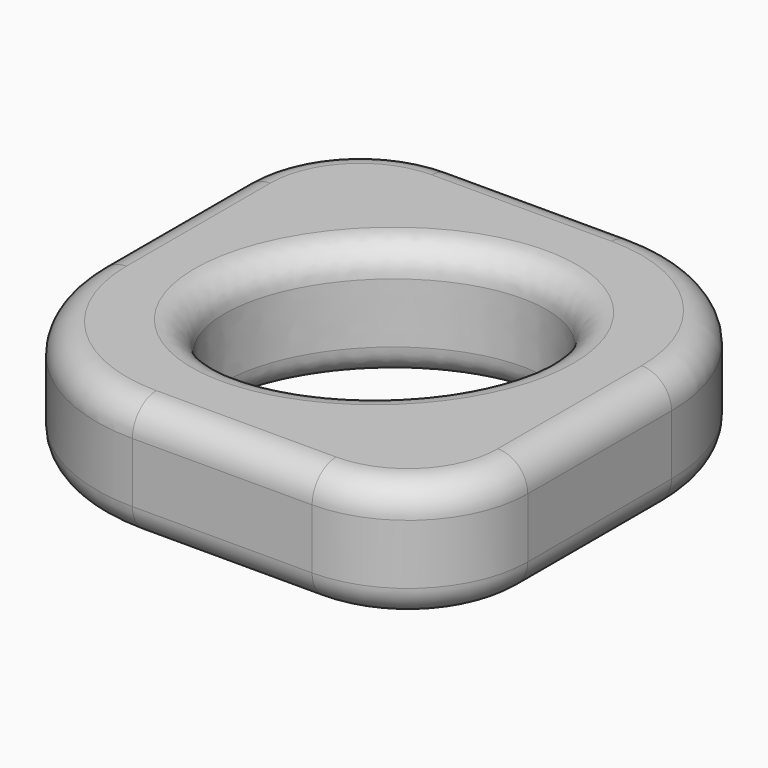
from build123d import *

# Parameters (mm, degrees)
F0_W     = 101.6
F0_H     = 101.6
F1_DEPTH = 25.4
F2_R     = 25.4
F3_R     = 38.1
F4_R     = 6.35


with BuildPart() as f1:
    # F0 (on Top) → F1 (new body)
    with BuildSketch(Plane.XY):
        Rectangle(F0_W, F0_H)
        with BuildLine():
            add(Edge.make_bspline(
                [(22.45064, 22.45064), (-8.657879, 53.55916), (-26.77958, 4.32894), (-44.901281, -44.901281), (4.32894, -26.77958), (53.55916, -8.657879), (22.45064, 22.45064)],
                knots=[0, 0, 0, 2.094395, 2.094395, 4.18879, 4.18879, 6.283185, 6.283185, 6.283185], degree=2, weights=[1, 0.5, 1, 0.5, 1, 0.5, 1]))
        make_face(mode=Mode.SUBTRACT)
    extrude(amount=F1_DEPTH)

    # F2
    f2_edges = [f1.edges().sort_by_distance(p)[0] for p in [
        (50.8, -50.8, 12.7),
        (-50.8, 50.8, 12.7),
    ]]
    fillet(f2_edges, radius=F2_R)

    # F3
    f3_edges = [f1.edges().sort_by_distance(p)[0] for p in [
        (50.8, 50.8, 12.7),
        (-50.8, -50.8, 12.7),
    ]]
    fillet(f3_edges, radius=F3_R)

    # F4
    f4_edges = [f1.edges().sort_by_distance(p)[0] for p in [
        (6.35, -50.8, 25.4),
        (6.35, -50.8, 0),
        (-22.45064, -22.45064, 25.4),
        (-22.45064, -22.45064, 0),
    ]]
    fillet(f4_edges, radius=F4_R)


solid = f1.part
